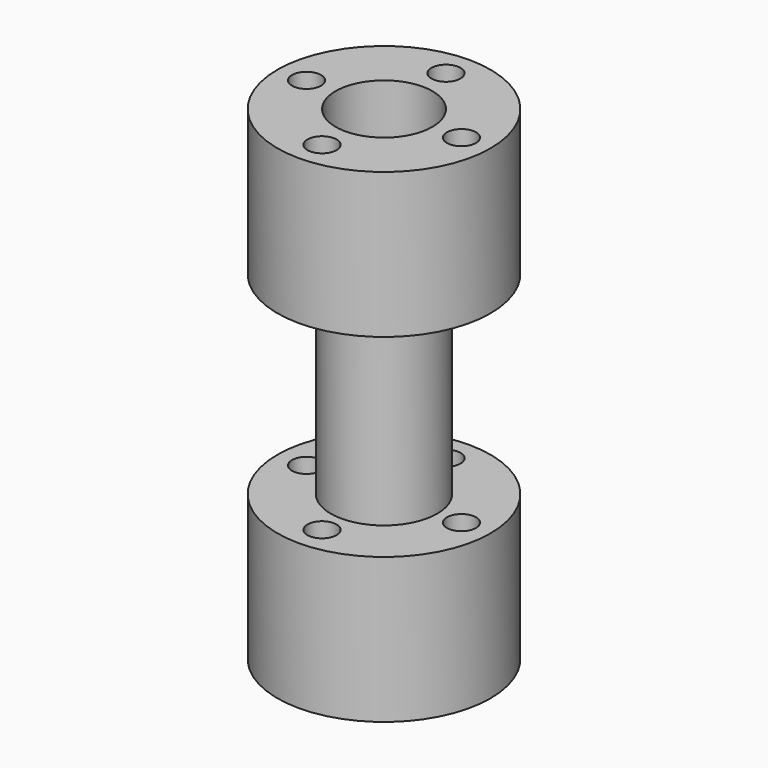
from build123d import *

# Parameters (mm, degrees)
SKETCH001_R        = 1.5
POCKET_DEPTH       = 156.780455
POCKET_DEPTH_BACK  = 128.780455
POLARPATTERN_COUNT = 4


with BuildPart() as part:
    # Sketch → Revolution (revolve)
    with BuildSketch(Plane.XZ):
        Polygon((5, -25), (5, -14), (4.25, -14), (4.25, 14), (5, 14), (5, 25), (11, 25), (11, 10), (5.5, 10), (5.5, -10), (11, -10), (11, -25), align=None)
    revolve(axis=Axis((0, 0, 0), (0, 0, 1)))

    # Sketch001 (on Face2 of Revolution) → Pocket (cut, two sides)
    with BuildSketch(Plane(origin=(0, 0, -14), x_dir=(1, 0, 0), z_dir=(0, 0, -1))) as pocket_sk:
        with Locations((0, 8)):
            Circle(SKETCH001_R)
    pocket = extrude(amount=-POCKET_DEPTH, mode=Mode.SUBTRACT) + extrude(pocket_sk.sketch, amount=POCKET_DEPTH_BACK, mode=Mode.SUBTRACT)

    # PolarPattern: Pocket ×4 about axis
    polarpattern_axis = Axis((0, 0, -14), (0, 0, -1))
    for i in range(1, POLARPATTERN_COUNT):
        add(pocket.rotate(polarpattern_axis, i * 360 / POLARPATTERN_COUNT), mode=Mode.SUBTRACT)


solid = part.part
